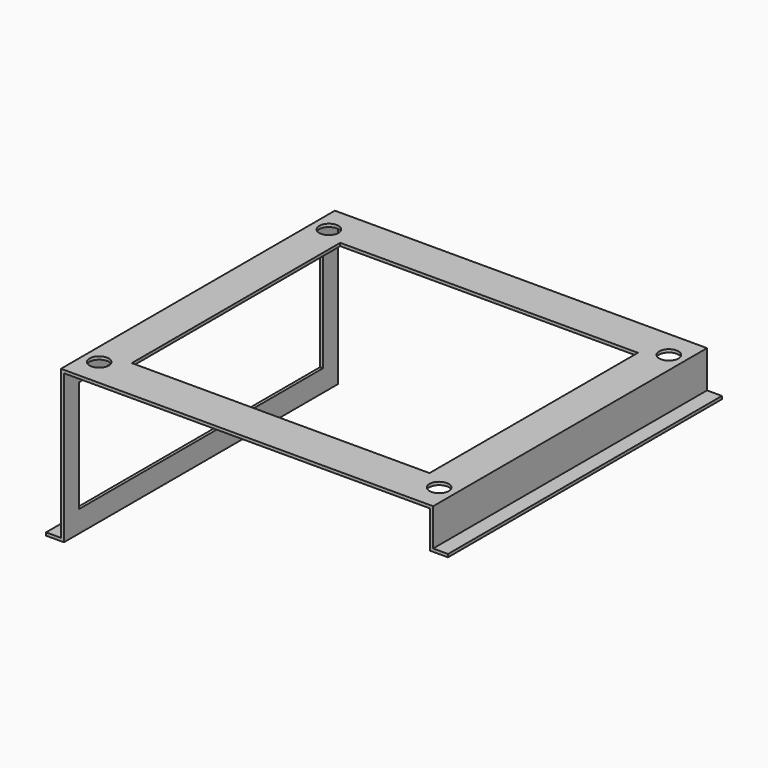
from build123d import *

# Parameters (mm, degrees)
F1_DEPTH = 58.42
F2_R     = 1.651
F3_DEPTH = 25.4
F4_W     = 50.8
F4_H     = 44.45
F5_DEPTH = 25.909
F6_W     = 52.07
F6_H     = 19.05
F7_DEPTH = 25.4


with BuildPart() as f1:
    # F0 (on Front) → F1 (new body)
    with BuildSketch(Plane.XZ):
        Polygon((63.5, 0), (0, 0), (0, -25.4), (-2.54, -25.4), (-2.54, -25.908), (0.508, -25.908), (0.508, -0.508), (62.992, -0.508), (62.992, -6.858), (66.04, -6.858), (66.04, -6.35), (63.5, -6.35), align=None)
        Polygon((63.5, 0), (0, 0), (0, -25.4), (-2.54, -25.4), (-2.54, -25.908), (0.508, -25.908), (0.508, -0.508), (62.992, -0.508), (62.992, -6.858), (66.04, -6.858), (66.04, -6.35), (63.5, -6.35), align=None)
    extrude(amount=-F1_DEPTH)

    # F2 (on face) → F3 (cut)
    with BuildSketch(Plane.XY):
        with Locations((2.7559, 53.6956)):
            Circle(F2_R)
        with Locations((2.7559, 4.699)):
            Circle(F2_R)
        with Locations((60.7441, 53.721)):
            Circle(F2_R)
        with Locations((60.7441, 4.7244)):
            Circle(F2_R)
    extrude(amount=-F3_DEPTH, mode=Mode.SUBTRACT)

    # F4 (on face) → F5 (cut, through all)
    with BuildSketch(Plane.XY):
        with Locations((31.75, 29.392602)):
            Rectangle(F4_W, F4_H)
    extrude(amount=-F5_DEPTH, mode=Mode.SUBTRACT)

    # F6 (on face) → F7 (cut)
    with BuildSketch(Plane(origin=(0, 0, 0), x_dir=(0, -1, 0), z_dir=(-1, 0, 0))):
        with Locations((-29.21, -12.7)):
            Rectangle(F6_W, F6_H)
    extrude(amount=-F7_DEPTH, mode=Mode.SUBTRACT)


solid = f1.part
